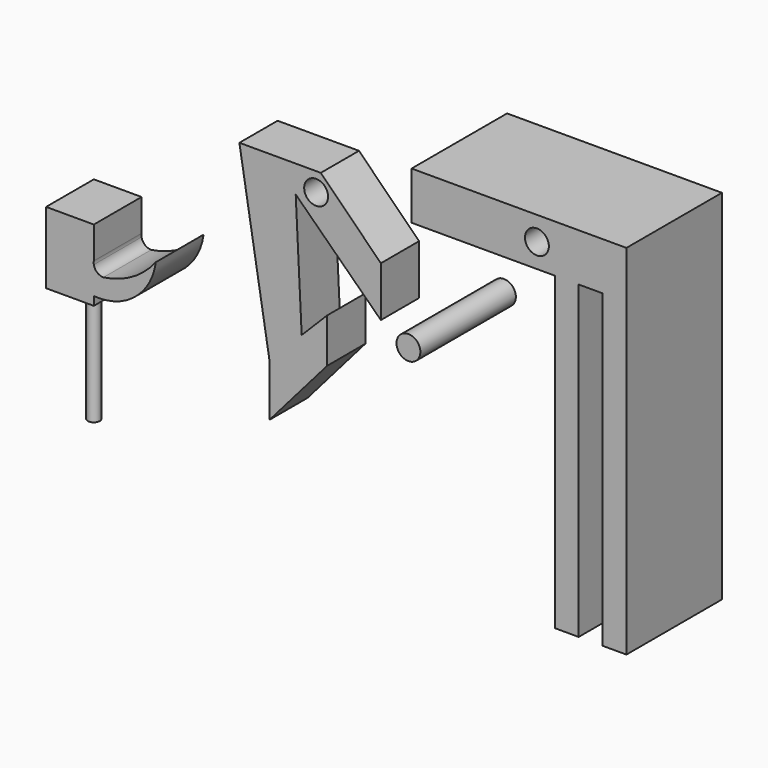
from build123d import *

# Parameters (mm, degrees)
F0_R     = 5
F1_DEPTH = 20
F2_DEPTH = 50
F3_DEPTH = 50
F4_DEPTH = 25
F5_R     = 2.5
F6_DEPTH = 50


with BuildPart() as f1:
    # F0 (on Front) → F1 (new body)
    with BuildSketch(Plane.XZ):
        Polygon((0, 0), (0, 18.587303), (-10.657682, 7.868015), (-13.166117, 58.935304), (22.500423, 24.17747), (22.500423, 45.140596), (-2.655328, 70.296347), (-36.755343, 70.296347), (-24.177468, -5.729921), (-24.177468, -27.811079), align=None)
        with Locations((-4.611884, 62.470106)):
            Circle(F0_R, mode=Mode.SUBTRACT)
    extrude(amount=F1_DEPTH)


with BuildPart() as f2:
    # F0 (on Front) → F2 (new body)
    with BuildSketch(Plane.XZ):
        with Locations((58.052182, 37.791558)):
            Circle(F0_R)
    extrude(amount=F2_DEPTH)


with BuildPart() as f3:
    # F0 (on Front) → F3 (new body)
    with BuildSketch(Plane.XZ):
        Polygon((119.368089, 84.25321), (119.368089, -45.724902), (129.368089, -45.724902), (129.368089, 84.25321), (139.368089, 84.25321), (139.368089, -45.724902), (149.368089, -45.724902), (149.368089, 104.25321), (119.368089, 104.25321), (59.368089, 104.25321), (59.368089, 84.25321), align=None)
        with Locations((111.868089, 94.25321)):
            Circle(F0_R, mode=Mode.SUBTRACT)
    extrude(amount=F3_DEPTH)


with BuildPart() as f4:
    # F0 (on Front) → F4 (new body)
    with BuildSketch(Plane.XZ):
        with BuildLine():
            Line((-93.725536, 13.428823), (-93.725536, 23.653466))
            Line((-93.725536, 23.653466), (-113.725536, 23.653466))
            Line((-113.725536, 23.653466), (-113.725536, -6.346534))
            Line((-113.725536, -6.346534), (-93.725536, -6.346534))
            Line((-93.725536, -6.346534), (-93.725536, -2.700388))
            ThreePointArc((-93.725536, -2.700388), (-76.546582, 2.536641), (-67.76756, 18.204179))
            ThreePointArc((-67.76756, 18.204179), (-77.48873, 9.686588), (-89.707051, 5.471954))
            ThreePointArc((-89.707051, 5.471954), (-92.331314, 6.428913), (-93.725536, 8.849383))
            ThreePointArc((-93.725536, 8.849383), (-93.786691, 9.553265), (-93.725536, 10.257147))
            Line((-93.725536, 10.257147), (-93.725536, 13.428823))
        make_face()
    extrude(amount=F4_DEPTH)

    # F5 (on face) → F6 (join)
    with BuildSketch(Plane(origin=(0, 0, -6.346534), x_dir=(1, 0, 0), z_dir=(0, 0, -1))):
        with Locations((-103.725536, 12.5)):
            Circle(F5_R)
    extrude(amount=F6_DEPTH)


solid = Compound([f1.part, f2.part, f3.part, f4.part])
